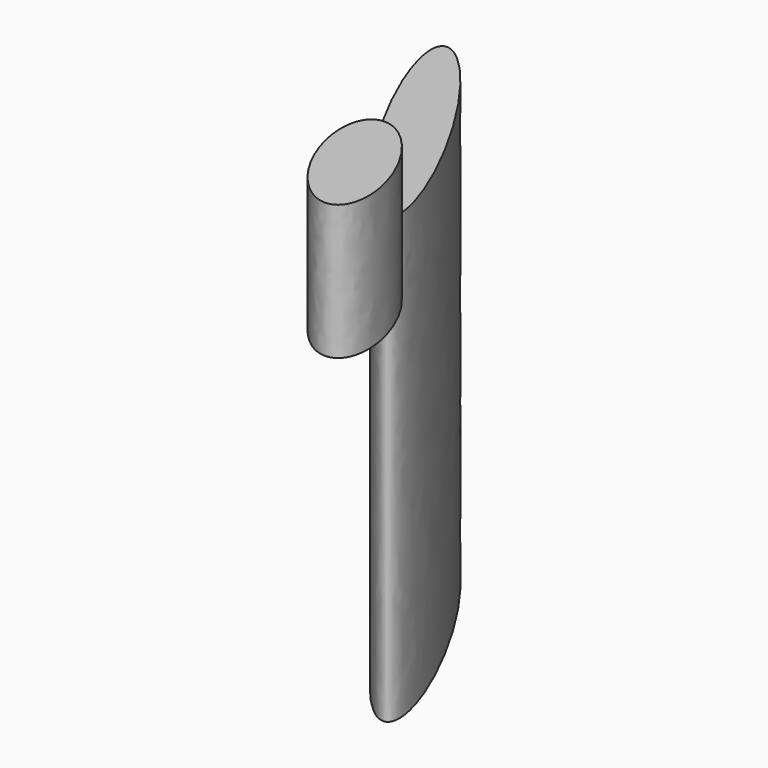
from build123d import *

# Parameters (mm, degrees)
F1_DEPTH = 83.566
F3_DEPTH = 25.4


with BuildPart() as f1:
    # F0 (on Top) → F1 (new body)
    with BuildSketch(Plane.XY):
        with BuildLine():
            add(Edge.make_bspline(
                [(89.904875, 51.286738), (97.81311, 55.852561), (73.15834, 89.424229), (48.50357, 122.995898), (65.250104, 84.858407), (81.996639, 46.720916), (89.904875, 51.286738)],
                knots=[0, 0, 0, 2.094395, 2.094395, 4.18879, 4.18879, 6.283185, 6.283185, 6.283185], degree=2, weights=[1, 0.5, 1, 0.5, 1, 0.5, 1]))
        make_face()
    extrude(amount=F1_DEPTH)


with BuildPart() as f3:
    # F2 (on face) → F3 (new body)
    with BuildSketch(Plane.XY.offset(83.566)):
        with BuildLine():
            add(Edge.make_bspline(
                [(99.671513, 36.542293), (89.742053, 31.783576), (103.699749, 15.398359), (117.657445, -0.986857), (113.629209, 20.157076), (109.600972, 41.301009), (99.671513, 36.542293)],
                knots=[0, 0, 0, 2.094395, 2.094395, 4.18879, 4.18879, 6.283185, 6.283185, 6.283185], degree=2, weights=[1, 0.5, 1, 0.5, 1, 0.5, 1]))
        make_face()
    extrude(amount=F3_DEPTH)


solid = Compound([f1.part, f3.part])
